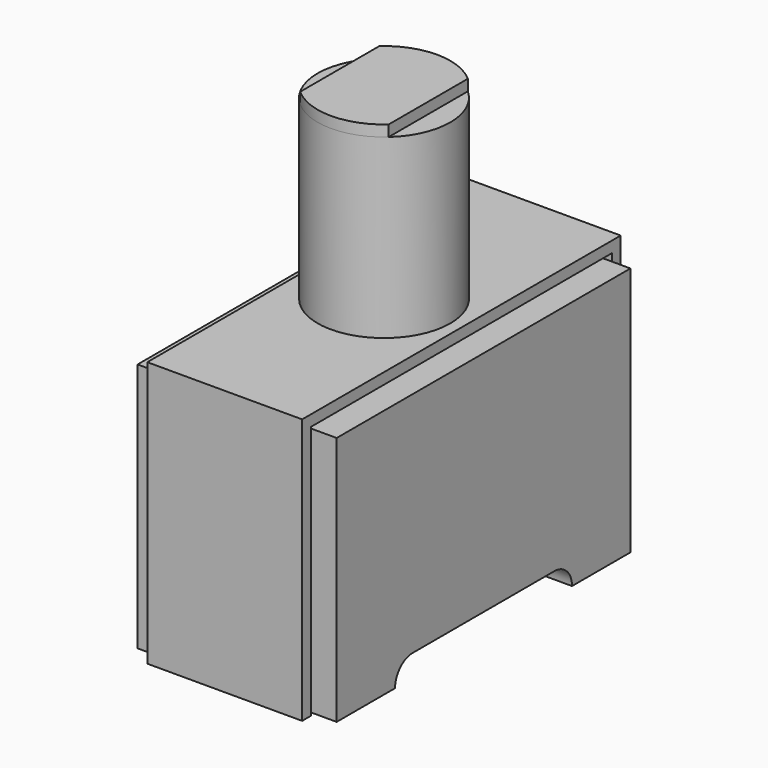
from build123d import *

# Parameters (mm, degrees)
F0_W      = 114.3
F0_H      = 210.82
F1_DEPTH  = 143.51
F2_W      = 88.9
F2_H      = 210.82
F2_H_2    = 8.89
F3_DEPTH  = 8.89
F4_W      = 88.9
F4_H      = 2.54
F5_DEPTH  = 228.6
F6_W      = 88.9
F6_H      = 6.35
F7_DEPTH  = 152.4
F8_W      = 2.54
F8_H      = 2.54
F9_DEPTH  = 88.9
F10_R     = 38.1
F11_DEPTH = 101.6
F13_DEPTH = 6.35
F15_DEPTH = 114.3


with BuildPart() as f1:
    # F0 (on Top) → F1 (new body)
    with BuildSketch(Plane.XY):
        Rectangle(F0_W, F0_H)
    extrude(amount=F1_DEPTH)

    # F2 (on face) → F3 (join)
    with BuildSketch(Plane.XY.offset(143.51)):
        Rectangle(F2_W, F2_H)
        with Locations((0, 109.855)):
            Rectangle(F2_W, F2_H_2)
        with Locations((0, -109.855)):
            Rectangle(F2_W, F2_H_2)
    extrude(amount=F3_DEPTH)

    # F4 (on face) → F5 (cut)
    with BuildSketch(Plane(origin=(0, 105.41, 0), x_dir=(-1, 0, 0), z_dir=(0, 1, 0))):
        with Locations((0, 144.78)):
            Rectangle(F4_W, F4_H)
    extrude(amount=-F5_DEPTH, mode=Mode.SUBTRACT)

    # F6 (on face) → F7 (join)
    with BuildSketch(Plane.XY.offset(152.4)):
        with Locations((0, 111.125)):
            Rectangle(F6_W, F6_H)
        with Locations((0, -111.125)):
            Rectangle(F6_W, F6_H)
    extrude(amount=-F7_DEPTH)

    # F8 (on face) → F9 (cut)
    with BuildSketch(Plane.YZ.offset(44.45)):
        with Locations((106.68, 144.78)):
            Rectangle(F8_W, F8_H)
    extrude(amount=-F9_DEPTH, mode=Mode.SUBTRACT)

    # F10 (on face) → F11 (join)
    with BuildSketch(Plane.XY.offset(152.4)):
        Circle(F10_R)
    extrude(amount=F11_DEPTH)

    # F12 (on face) → F13 (join)
    with BuildSketch(Plane.XY.offset(254)):
        with BuildLine():
            ThreePointArc((25.4, 28.3980633142), (0, 38.1), (-25.4, 28.3980633142))
            Line((-25.4, 28.3980633142), (-25.4, -28.3980633142))
            ThreePointArc((-25.4, -28.3980633142), (0, -38.1), (25.4, -28.3980633142))
            Line((25.4, -28.3980633142), (25.4, 28.3980633142))
        make_face()
    extrude(amount=F13_DEPTH)

    # F14 (on face) → F15 (cut)
    with BuildSketch(Plane.YZ.offset(57.15)):
        with BuildLine():
            ThreePointArc((-50.8, 12.7), (-59.7802561211, 8.9802561211), (-63.5, 0))
            Line((-63.5, 0), (63.5, 0))
            ThreePointArc((63.5, 0), (59.7802561211, 8.9802561211), (50.8, 12.7))
            Line((50.8, 12.7), (-50.8, 12.7))
        make_face()
    extrude(amount=-F15_DEPTH, mode=Mode.SUBTRACT)


solid = f1.part
